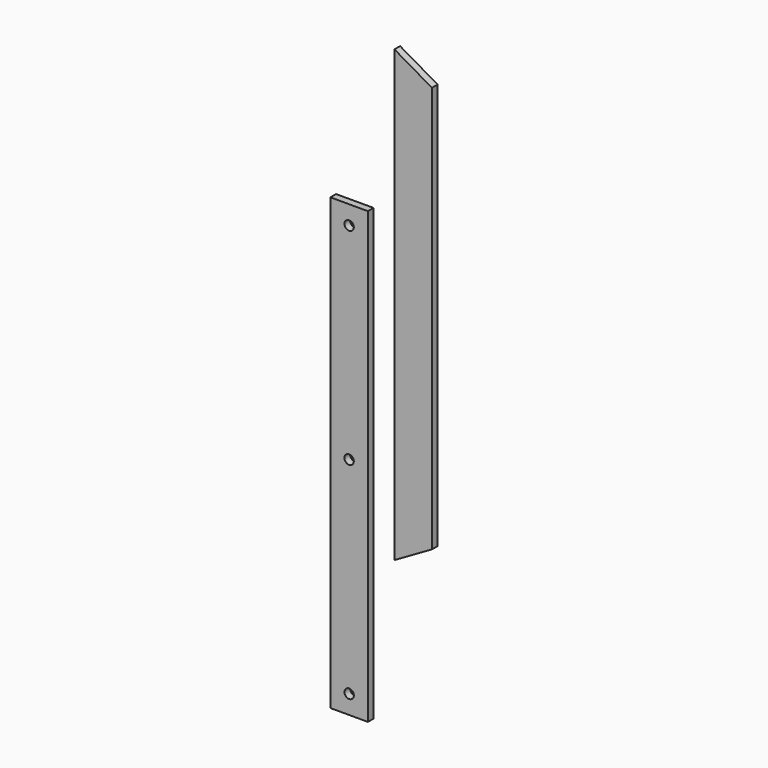
from build123d import *

# Parameters (mm, degrees)
F0_W     = 25.4
F0_H     = 304.8
F0_R     = 3.175
F1_DEPTH = 4.8
F3_DEPTH = 4.8


with BuildPart() as f1:
    # F0 (on Front) → F1 (new body)
    with BuildSketch(Plane.XZ):
        Rectangle(F0_W, F0_H)
        with Locations((0, -139.7)):
            Circle(F0_R, mode=Mode.SUBTRACT)
        Circle(F0_R, mode=Mode.SUBTRACT)
        with Locations((0, 139.7)):
            Circle(F0_R, mode=Mode.SUBTRACT)
    extrude(amount=F1_DEPTH)


with BuildPart() as f3:
    # F2 (on Front) → F3 (new body, through all)
    with BuildSketch(Plane.XZ):
        Polygon((56.126103, 240.155916), (30.726103, 254.820613), (30.726103, -49.979387), (56.126103, -35.31469), align=None)
    extrude(amount=F3_DEPTH)


solid = Compound([f1.part, f3.part])
